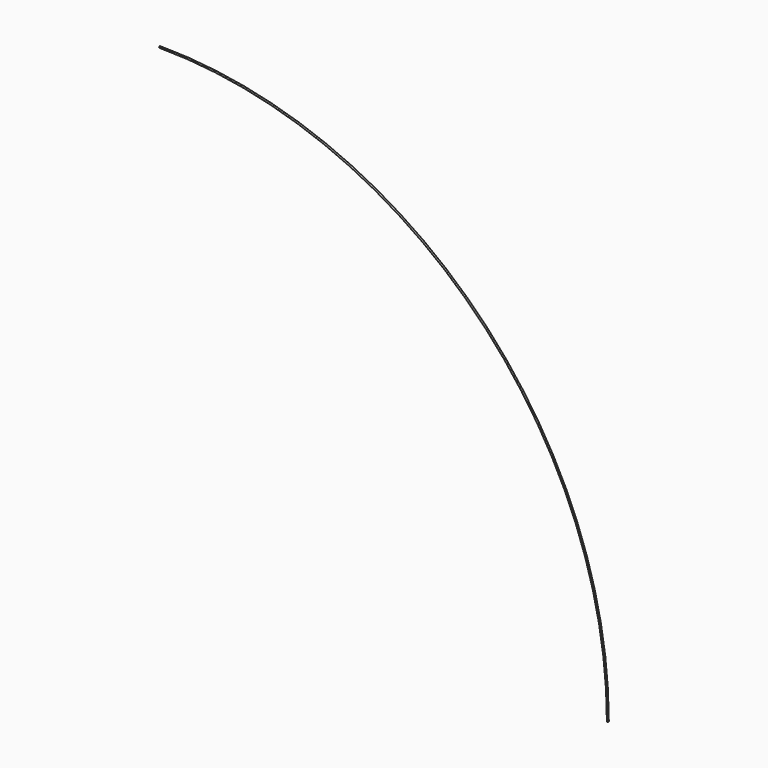
from build123d import *

# Parameters (mm, degrees)
F1_R = 3.175


with BuildPart() as f2:
    # F2: sweep along a path in F0
    with BuildLine(Plane.XZ) as f2_path:
        ThreePointArc((1940.417066, 0), (1372.082066, 1372.082066), (0, 1940.417066))
    # F1 (on Right) → F2 (sweep)
    with BuildSketch(Plane.YZ):
        with Locations((0, 1940.417066)):
            Circle(F1_R)
    sweep(path=f2_path.line)


solid = f2.part
